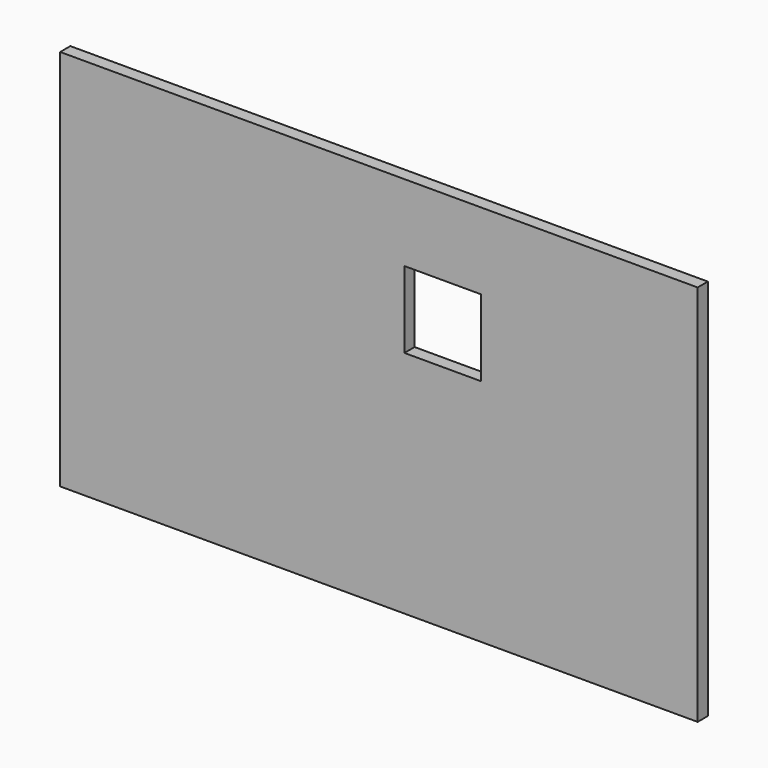
from build123d import *

# Parameters (mm, degrees)
F0_W     = 5000
F0_H     = 3000
F1_DEPTH = 50
F2_W     = 600
F2_H     = 600
F3_DEPTH = 100.001


with BuildPart() as f1:
    # F0 (on Front) → F1 (new body, symmetric)
    with BuildSketch(Plane.XZ):
        with Locations((0, 1500)):
            Rectangle(F0_W, F0_H)
    extrude(amount=F1_DEPTH, both=True)

    # F2 (on face) → F3 (cut, through all)
    with BuildSketch(Plane.XZ.offset(50)):
        with Locations((500, 2100)):
            Rectangle(F2_W, F2_H)
    extrude(amount=-F3_DEPTH, mode=Mode.SUBTRACT)


solid = f1.part
